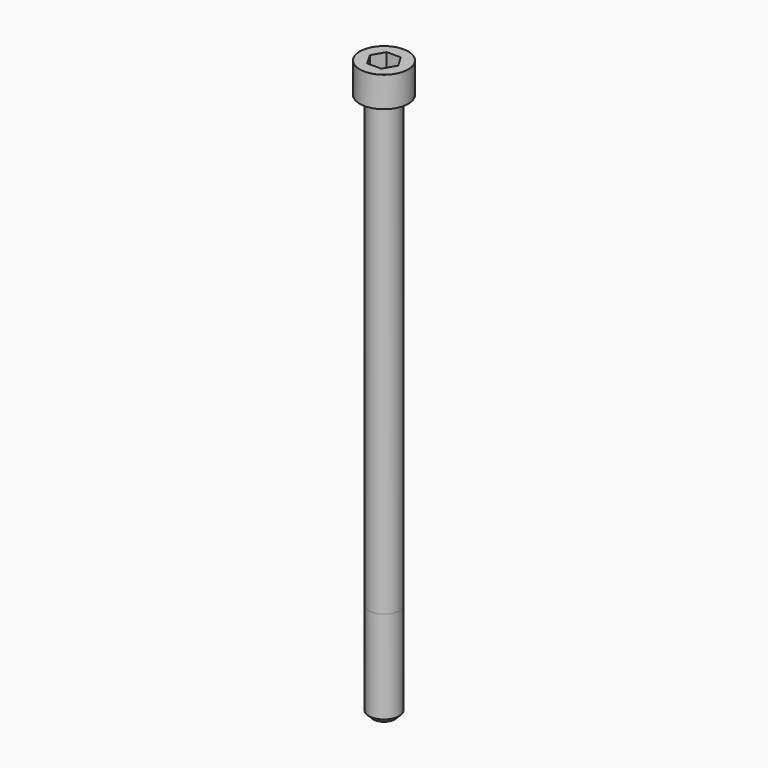
from build123d import *

# Parameters (mm, degrees)
POCKET_DEPTH = 8.07


with BuildPart() as part:
    # Sketch → Revolve (revolve)
    with BuildSketch(Plane.YZ):
        with BuildLine():
            Line((4.999, 0), (8, 0))
            Line((8, 0), (8, 9.97229))
            ThreePointArc((8, 9.97229), (7.991884, 9.991884), (7.97229, 10))
            Line((7.97229, 10), (0, 10))
            Line((0, -180), (0, 10))
            Line((3.5, -180), (0, -180))
            Line((5, -178.5), (3.5, -180))
            Line((5, -148), (5, -178.5))
            Line((4.999, 0), (5, -148))
        make_face()
    revolve(axis=Axis((0, 0, 0), (0, 0, 1)))

    # Sketch001 → Pocket (cut)
    with BuildSketch(Plane.XY.offset(10)):
        Polygon((4.659217, 0), (2.329608, 4.035), (-2.329608, 4.035), (-4.659217, 0), (-2.329608, -4.035), (2.329608, -4.035), align=None)
    extrude(amount=-POCKET_DEPTH, mode=Mode.SUBTRACT)


solid = part.part
